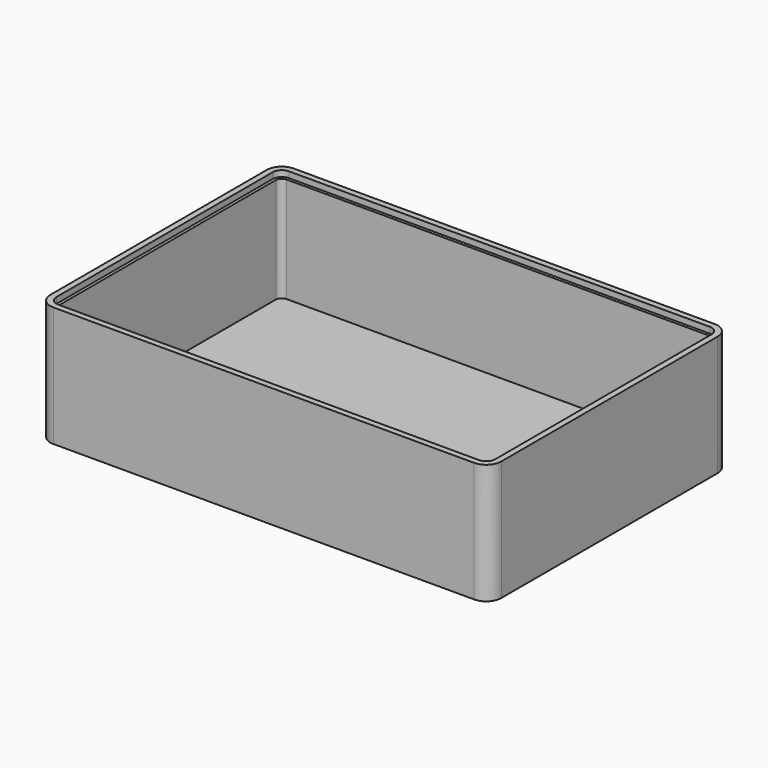
from build123d import *

# Parameters (mm, degrees)
F0_W     = 150
F0_H     = 100
F1_DEPTH = 40
F2_R     = 5
F3_T     = -3
F4_W     = 146
F4_H     = 96
F5_DEPTH = 2
F6_R     = 3


with BuildPart() as f1:
    # F0 (on Top) → F1 (new body)
    with BuildSketch(Plane.XY):
        Rectangle(F0_W, F0_H)
    extrude(amount=F1_DEPTH)

    # F2
    f2_edges = [f1.edges().sort_by_distance(p)[0] for p in [
        (75, 50, 20),
        (-75, 50, 20),
        (-75, -50, 20),
        (75, -50, 20),
    ]]
    fillet(f2_edges, radius=F2_R)

    # F3
    f3_openings = [f1.faces().sort_by_distance(p)[0] for p in [
        (0, 0, 40),
    ]]
    offset(amount=F3_T, openings=f3_openings)

    # F4 (on face) → F5 (cut)
    with BuildSketch(Plane.XY.offset(40)):
        Rectangle(F4_W, F4_H)
    extrude(amount=-F5_DEPTH, mode=Mode.SUBTRACT)

    # F6
    f6_edges = [f1.edges().sort_by_distance(p)[0] for p in [
        (73, 48, 39),
        (73, -48, 39),
        (-73, 48, 39),
        (-73, -48, 39),
    ]]
    fillet(f6_edges, radius=F6_R)


solid = f1.part
